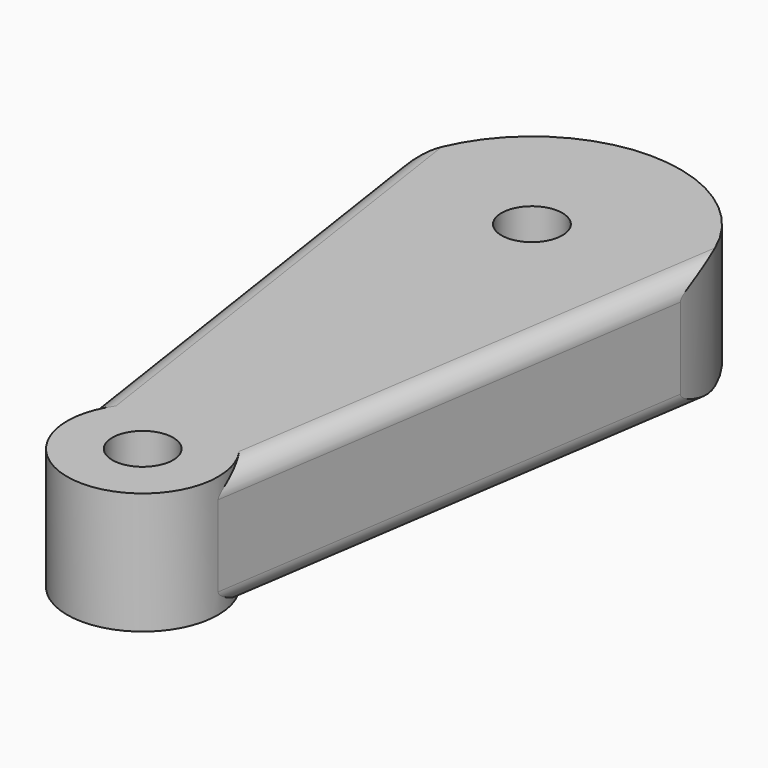
from build123d import *

# Parameters (mm, degrees)
SKETCH_R    = 1.5
PAD_DEPTH   = 6
FILLET_R    = 1
FILLET001_R = 1
FILLET002_R = 1
FILLET003_R = 1


with BuildPart() as part:
    # Sketch → Pad (new body)
    with BuildSketch(Plane.XY):
        with BuildLine():
            Line((-7.325, 0), (-3.725, -24))
            ThreePointArc((-3.725, -24), (0, -27.725), (3.725, -24))
            Line((7.325, 0), (3.725, -24))
            ThreePointArc((7.325, 0), (0, 7.325), (-7.325, 0))
        make_face()
        Circle(SKETCH_R, mode=Mode.SUBTRACT)
        with Locations((0, -24)):
            Circle(SKETCH_R, mode=Mode.SUBTRACT)
    extrude(amount=PAD_DEPTH)

    # Fillet
    fillet_edges = [part.edges().sort_by_distance(p)[0] for p in [
        (-5.525, -12, 6),
    ]]
    fillet(fillet_edges, radius=FILLET_R)

    # Fillet001
    fillet001_edges = [part.edges().sort_by_distance(p)[0] for p in [
        (5.525, -12, 6),
    ]]
    fillet(fillet001_edges, radius=FILLET001_R)

    # Fillet002
    fillet002_edges = [part.edges().sort_by_distance(p)[0] for p in [
        (-5.525, -12, 0),
    ]]
    fillet(fillet002_edges, radius=FILLET002_R)

    # Fillet003
    fillet003_edges = [part.edges().sort_by_distance(p)[0] for p in [
        (5.525, -12, 0),
    ]]
    fillet(fillet003_edges, radius=FILLET003_R)


solid = part.part
